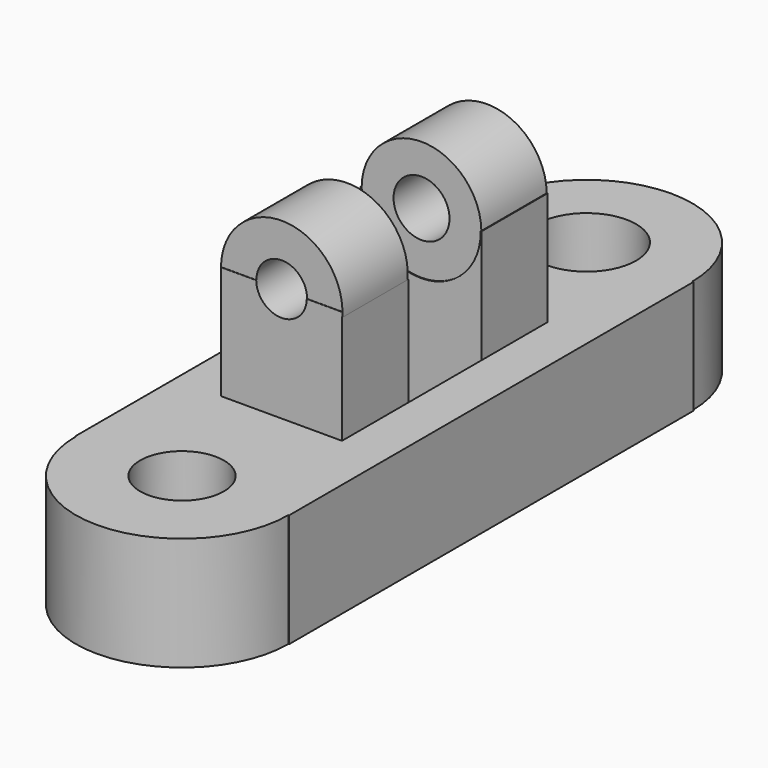
from build123d import *

# Parameters (mm, degrees)
F0_W      = 27.0868334974
F0_H      = 18.5560942991
F1_DEPTH  = 50.8
F0_R      = 9.3791948403
F0_R_2    = 11.0914176542
F2_DEPTH  = 25.4
F3_R      = 13.588079422
F4_DEPTH  = 25.4
F5_DEPTH  = 13.208
F6_DEPTH  = 3.302
F7_DEPTH  = 10.414
F8_R      = 13.4014797698
F9_DEPTH  = 28.702
F10_DEPTH = 10.414
F11_R     = 6.2651990724
F12_DEPTH = 36.322
F13_R     = 5.6629254321
F14_DEPTH = 82.042


with BuildPart() as f1:
    # F0 (on Top) → F1 (new body)
    with BuildSketch(Plane.XY):
        with Locations((0, -19.4966302854)):
            Rectangle(F0_W, F0_H)
    extrude(amount=F1_DEPTH)



with BuildPart() as f1b:
    # F0 (on Top) → F1, piece 2 (new body)
    with BuildSketch(Plane.XY):
        with Locations((0, 19.4966302854)):
            Rectangle(F0_W, F0_H)
    extrude(amount=F1_DEPTH)


with BuildPart() as f1_1:
    add(f1.part)

    add(f1b.part)  # F2 merges F1b
    # F0 (on Top) → F2 (join)
    with BuildSketch(Plane.XY):
        with BuildLine():
            Line((23.7966101182, -56.6057153046), (23.9485707134, -56.6057153046))
            Line((23.9485707134, -56.6057153046), (23.9485707134, 56.6057153046))
            Line((23.9485707134, 56.6057153046), (23.6905010782, 56.6057153046))
            ThreePointArc((23.6905010782, 56.6057153046), (0, 80.2962163828), (-23.6905010782, 56.6057153046))
            Line((-23.6905010782, 56.6057153046), (-23.9485707134, 56.6057153046))
            Line((-23.9485707134, 56.6057153046), (-23.9485707134, -56.6057153046))
            Line((-23.9485707134, -56.6057153046), (-23.7966101182, -56.6057153046))
            ThreePointArc((-23.7966101182, -56.6057153046), (0, -80.4023254228), (23.7966101182, -56.6057153046))
        make_face()
        with Locations((0, -56.6057153046)):
            Circle(F0_R, mode=Mode.SUBTRACT)
        Polygon((-13.5434167487, 28.7746774349), (13.5434167487, 28.7746774349), (13.5434167487, 10.2185831358), (13.5434167487, -10.2185831358), (13.5434167487, -28.7746774349), (-13.5434167487, -28.7746774349), (-13.5434167487, -10.2185831358), (-13.5434167487, 10.2185831358), align=None, mode=Mode.SUBTRACT)
        with Locations((0, 56.6057153046)):
            Circle(F0_R_2, mode=Mode.SUBTRACT)
    extrude(amount=F2_DEPTH)

    # F3 (on Front) → F4 (join)
    with BuildSketch(Plane.XZ):
        with Locations((0, 50.7737323642)):
            Circle(F3_R)
    extrude(amount=F4_DEPTH)

    # F3 (on Front) → F5 (join)
    with BuildSketch(Plane.XZ):
        with Locations((0, 50.7737323642)):
            Circle(F3_R)
    extrude(amount=F5_DEPTH)

    # F6 (add): a face of the model
    f6_faces = [f1_1.faces().sort_by_distance(p)[0] for p in [
        (0, -25.4, 56.5534391302),
    ]]
    extrude(f6_faces, amount=F6_DEPTH)

    # F7 (cut): a face of the model
    f7_faces = [f1_1.faces().sort_by_distance(p)[0] for p in [
        (0, 0, 50.7737323642),
    ]]
    extrude(f7_faces, amount=-F7_DEPTH, mode=Mode.SUBTRACT)

    # F8 (on Front) → F9 (join)
    with BuildSketch(Plane.XZ):
        with Locations((0, 50.618570298)):
            Circle(F8_R)
    extrude(amount=-F9_DEPTH)

    # F10 (cut): a face of the model
    f10_faces = [f1_1.faces().sort_by_distance(p)[0] for p in [
        (0, 0, 50.618570298),
    ]]
    extrude(f10_faces, amount=-F10_DEPTH, mode=Mode.SUBTRACT)

    # F11 (on Front) → F12 (cut)
    with BuildSketch(Plane.XZ):
        with Locations((0, 50.8907139301)):
            Circle(F11_R)
    extrude(amount=-F12_DEPTH, mode=Mode.SUBTRACT)

    # F13 (on Front) → F14 (cut)
    with BuildSketch(Plane.XZ):
        with Locations((0, 50.8907139301)):
            Circle(F13_R)
    extrude(amount=F14_DEPTH, mode=Mode.SUBTRACT)


solid = f1_1.part
